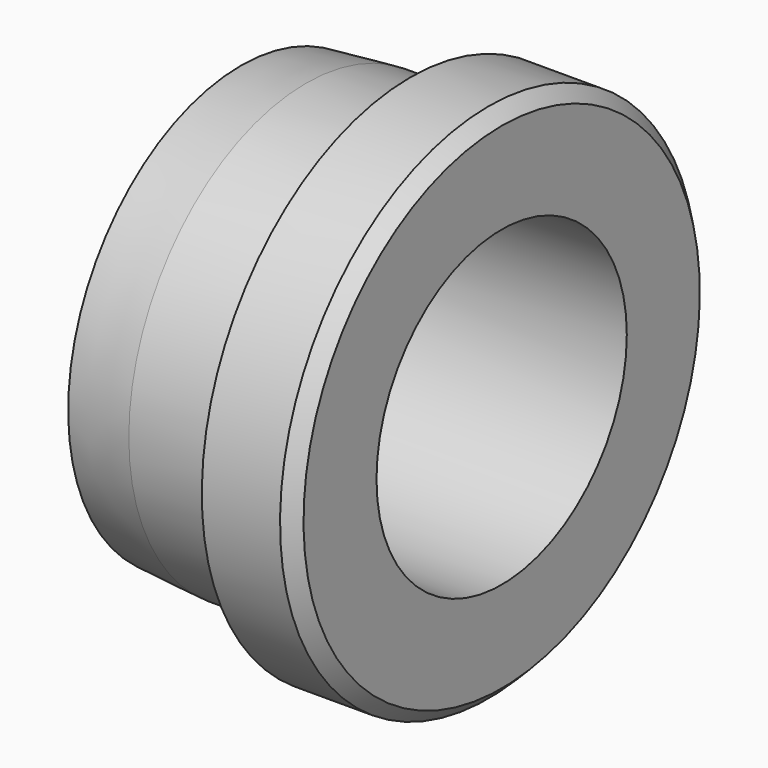
from build123d import *

# Parameters (mm, degrees)
F2_SIZE  = 1
F3_SIZE2 = 0.437443
F3_SIZE  = 5
F4_R     = 12
F5_DEPTH = 69.3


with BuildPart() as f1:
    # F0 (on Front) → F1 (revolve)
    with BuildSketch(Plane.XZ):
        Polygon((0, 17), (0, 0), (20, 0), (20, 20), (13, 20), (13, 17), align=None)
    revolve(axis=Axis((10, 0, 0), (1, 0, 0)))

    # F2
    f2_edges = [f1.edges().sort_by_distance(p)[0] for p in [
        (20, 0, -20),
    ]]
    chamfer(f2_edges, length=F2_SIZE)

    # F3
    f3_edges = [f1.edges().sort_by_distance(p)[0] for p in [
        (0, 0, -17),
    ]]
    chamfer(f3_edges, length=F3_SIZE, length2=F3_SIZE2)

    # F4 (on face) → F5 (cut)
    with BuildSketch(Plane(origin=(0, 0, 0), x_dir=(0, -1, 0), z_dir=(-1, 0, 0))):
        Circle(F4_R)
    extrude(amount=-F5_DEPTH, mode=Mode.SUBTRACT)


solid = f1.part
